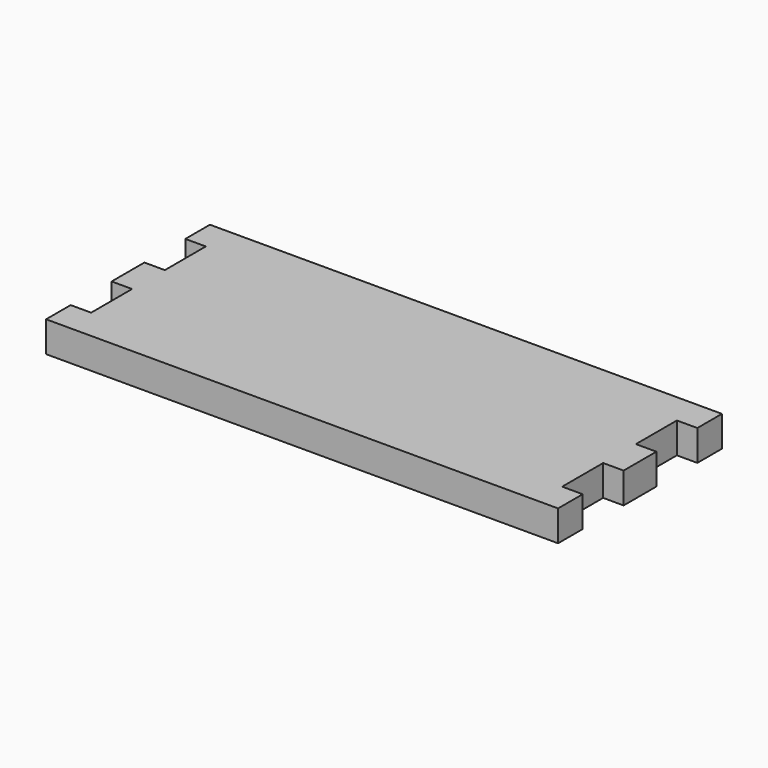
from build123d import *

# Parameters (mm, degrees)
F1_DEPTH = 3


with BuildPart() as f1:
    # F0 (on Top) → F1 (new body)
    with BuildSketch(Plane.XY):
        Polygon((25, 10), (-25, 10), (-25, 7), (-23, 7), (-23, 2), (-25, 2), (-25, 0), (-25, -2), (-23, -2), (-23, -7), (-25, -7), (-25, -10), (25, -10), (25, -7), (23, -7), (23, -2), (25, -2), (25, 0), (25, 2), (23, 2), (23, 7), (25, 7), align=None)
    extrude(amount=F1_DEPTH)


solid = f1.part
